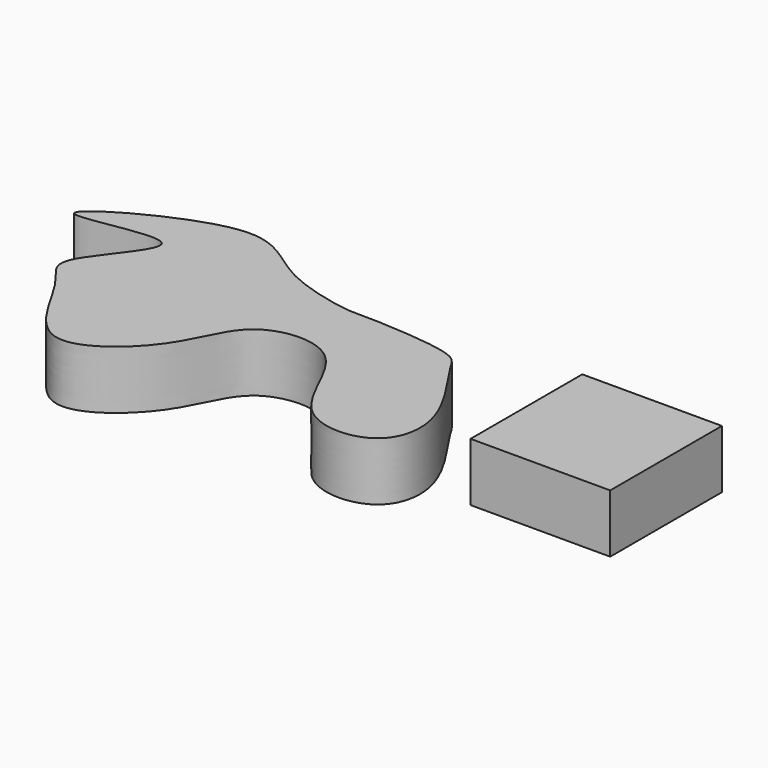
from build123d import *

# Parameters (mm, degrees)
F1_DEPTH = 25.4
F2_W     = 60.7626773417
F2_H     = 60.7626773417
F3_DEPTH = 25.4


with BuildPart() as f1:
    # F0 (on Top) → F1 (new body)
    with BuildSketch(Plane.XY):
        with BuildLine():
            add(Edge.make_bspline(
                [(-111.7081195116, 29.6260993928), (-107.1756445082, 25.3960151092), (-137.1123356032, -2.4301003868), (-119.377515008, -13.6597744772), (-100.9121171709, -61.57814042), (-59.0576800617, -27.9629873083), (-52.8989829461, 4.4019988211), (-9.7684354682, 7.9127309167), (-1.4574088651, -42.6496582308), (39.3075666358, -42.5897720407), (45.8158572094, -12.1770698782), (21.4218103706, 18.276614589), (18.290298383, 29.081024316), (-27.958434485, 30.7696428924), (-30.7651363802, 29.9605856431), (-67.9170855546, 36.9733098392), (-88.9484906822, 67.4314894578), (-180.6415649984, 14.6060064261), (-116.4183286794, 34.0220600452), (-111.7081195116, 29.6260993928)],
                knots=[0, 0, 0, 0, 0.0620606427, 0.1060321358, 0.1731858789, 0.2392657852, 0.2995289, 0.3573665799, 0.426893703, 0.4839084067, 0.5366825901, 0.6013044766, 0.6370489328, 0.7058043364, 0.7293282214, 0.7898152495, 0.8548093524, 0.9355057429, 1, 1, 1, 1], degree=3))
        make_face()
    extrude(amount=F1_DEPTH)


with BuildPart() as f3:
    # F2 (on Top) → F3 (new body)
    with BuildSketch(Plane.XY):
        with Locations((90.7088499516, 12.9293669015)):
            Rectangle(F2_W, F2_H)
    extrude(amount=F3_DEPTH)


solid = Compound([f1.part, f3.part])
